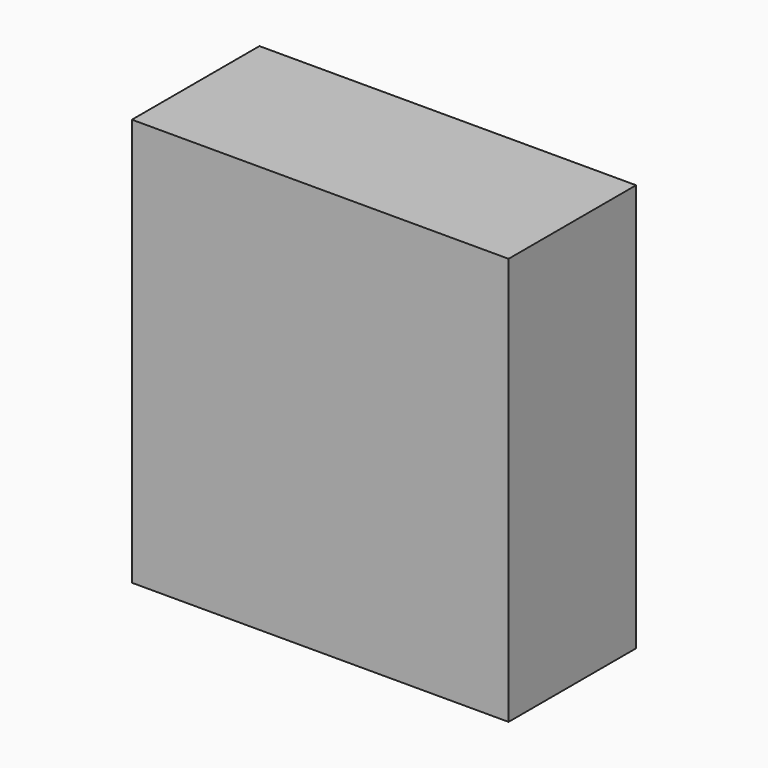
from build123d import *

# Parameters (mm, degrees)
F0_W     = 182
F0_H     = 77
F0_W_2   = 180
F0_H_2   = 75
F1_DEPTH = 195
F2_W     = 182
F2_H     = 77
F2_W_2   = 180
F2_H_2   = 75
F3_DEPTH = 1
F4_W     = 182
F4_H     = 77
F4_W_2   = 180
F4_H_2   = 75
F5_DEPTH = 1


with BuildPart() as f1:
    # F0 (on Top) → F1 (new body)
    with BuildSketch(Plane.XY):
        with Locations((-60.0073022693, 5.2463471889)):
            Rectangle(F0_W, F0_H)
        with Locations((-60.0073022693, 5.2463471889)):
            Rectangle(F0_W_2, F0_H_2, mode=Mode.SUBTRACT)
    extrude(amount=F1_DEPTH)

    # F2 (on face) → F3 (join)
    with BuildSketch(Plane.XY.offset(195)):
        with Locations((-60.0073022693, 5.2463471889)):
            Rectangle(F2_W, F2_H)
        with Locations((-60.0073022693, 5.2463471889)):
            Rectangle(F2_W_2, F2_H_2, mode=Mode.SUBTRACT)
        with Locations((-60.0073022693, 5.2463471889)):
            Rectangle(F2_W_2, F2_H_2)
    extrude(amount=F3_DEPTH)

    # F4 (on face) → F5 (join)
    with BuildSketch(Plane(origin=(0, 0, 0), x_dir=(1, 0, 0), z_dir=(0, 0, -1))):
        with Locations((-60.0073022693, -5.2463471889)):
            Rectangle(F4_W, F4_H)
        with Locations((-60.0073022693, -5.2463471889)):
            Rectangle(F4_W_2, F4_H_2, mode=Mode.SUBTRACT)
        with Locations((-60.0073022693, -5.2463471889)):
            Rectangle(F4_W_2, F4_H_2)
    extrude(amount=F5_DEPTH)


solid = f1.part
